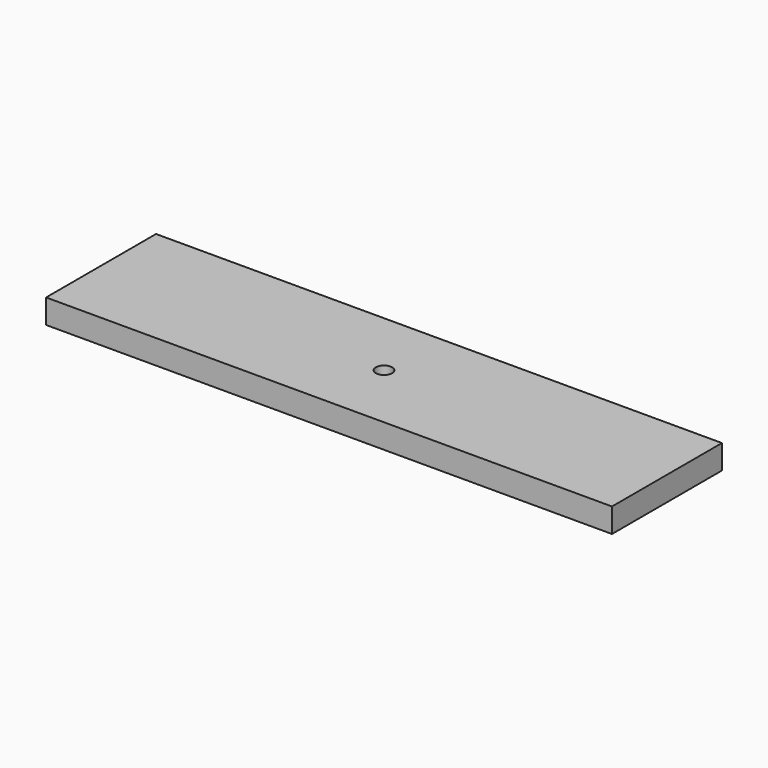
from build123d import *

# Parameters (mm, degrees)
CYLINDER021_R     = 2
CYLINDER021_DEPTH = 30
BOX013_W          = 140
BOX013_H          = 34
BOX013_DEPTH      = 6


with BuildPart() as cylinder021:
    # Cylinder021 → Cylinder021 (new body)
    with BuildSketch(Plane.XY.offset(200)):
        Circle(CYLINDER021_R)
    extrude(amount=CYLINDER021_DEPTH)


with BuildPart() as obj1:
    # Box013 → Box013 (new body)
    with BuildSketch(Plane(origin=(-70, -17, 210), x_dir=(1, 0, 0), z_dir=(0, 0, 1))):
        with Locations((70, 17)):
            Rectangle(BOX013_W, BOX013_H)
    extrude(amount=BOX013_DEPTH)

    # Cut020: cut Cylinder021
    add(cylinder021.part, mode=Mode.SUBTRACT)


solid = obj1.part
